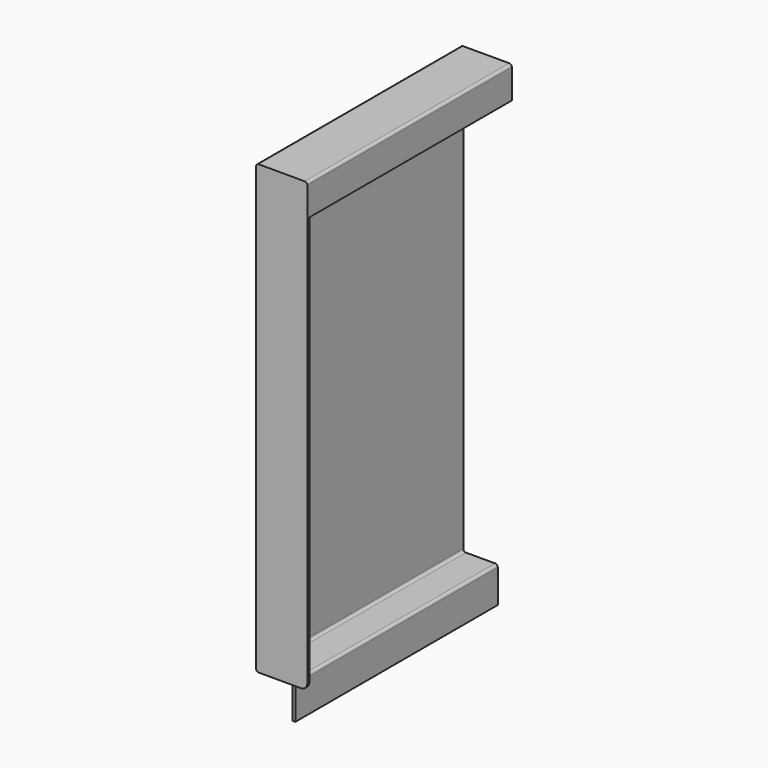
from build123d import *

# Parameters (mm, degrees)
F4_DEPTH = 2
F6_R     = 2


with BuildPart() as f2:
    # F2: sweep along a path in F1
    with BuildLine(Plane.XY) as f2_path:
        Line((0, 0), (0, 198))
    # F0 (on Front) → F2 (sweep)
    with BuildSketch(Plane.XZ):
        Polygon((40, 0), (0, 0), (0, -350), (27, -350), (27, -376), (29, -376), (29, -348), (2, -348), (2, -2), (38, -2), (38, -25), (40, -25), align=None)
    sweep(path=f2_path.line)


with BuildPart() as f4:
    # F3 (on face) → F4 (new body)
    with BuildSketch(Plane.XZ):
        with BuildLine():
            Line((40, -345), (40, 0))
            Line((40, 0), (0, 0))
            Line((0, 0), (0, -350))
            Line((0, -350), (35, -350))
            ThreePointArc((35, -350), (38.5355339059, -348.5355339059), (40, -345))
        make_face()
    extrude(amount=F4_DEPTH)


with BuildPart() as f2_1:
    add(f2.part)

    # F5: union F4
    add(f4.part)

    # F6
    f6_edges = [f2_1.edges().sort_by_distance(p)[0] for p in [
        (40, 98, 0),
        (0, 98, 0),
        (0, 98, -350),
        (29, 99, -348),
        (27, 99, -350),
        (2, 99, -348),
        (2, 99, -2),
        (38, 99, -2),
    ]]
    fillet(f6_edges, radius=F6_R)


solid = f2_1.part
